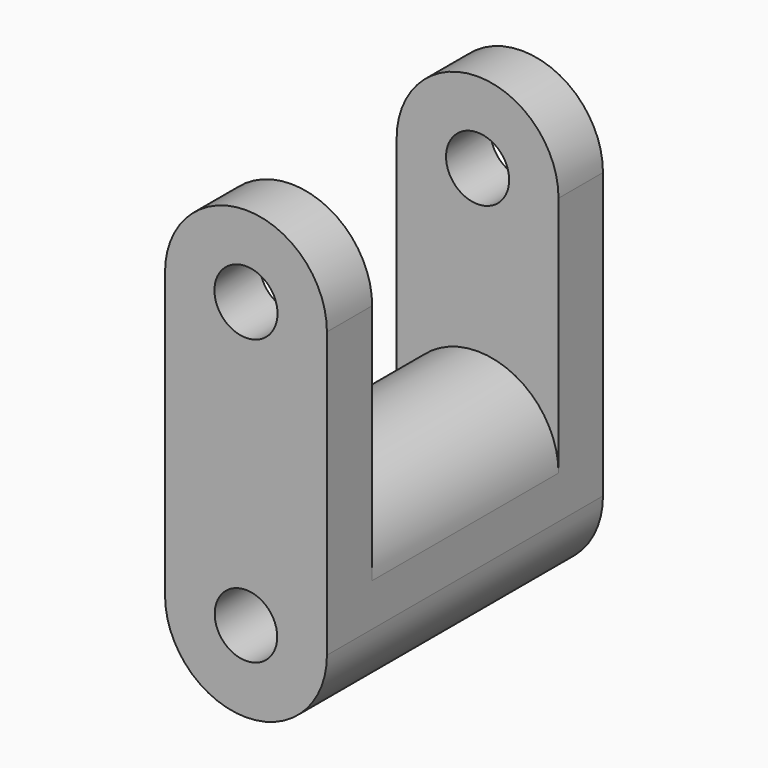
from build123d import *

# Parameters (mm, degrees)
F0_R     = 9.962887
F0_R_2   = 10.057091
F1_DEPTH = 109.982
F2_W     = 74.247135
F2_H     = 110.230008
F3_DEPTH = 51.598741
F5_DEPTH = 79.502


with BuildPart() as f1:
    # F0 (on Front) → F1 (new body)
    with BuildSketch(Plane.XZ):
        with BuildLine():
            ThreePointArc((-25.79887, -45.365807), (0, -71.164677), (25.79887, -45.365807))
            Line((25.79887, -45.365807), (25.79887, 45.365807))
            ThreePointArc((25.79887, 45.365807), (0, 71.164677), (-25.79887, 45.365807))
            Line((-25.79887, 45.365807), (-25.79887, -45.365807))
        make_face()
        with Locations((0, -45.365807)):
            Circle(F0_R, mode=Mode.SUBTRACT)
        with Locations((0, 45.365807)):
            Circle(F0_R_2, mode=Mode.SUBTRACT)
    extrude(amount=-F1_DEPTH)

    # F2 (on face) → F3 (cut, through all)
    with BuildSketch(Plane.YZ.offset(25.79887)):
        with Locations((55.153735, 23.353766)):
            Rectangle(F2_W, F2_H)
    extrude(amount=-F3_DEPTH, mode=Mode.SUBTRACT)

    # F4 (on face) → F5 (join)
    with BuildSketch(Plane.XZ.offset(-92.277303)):
        with BuildLine():
            Line((-25.79887, -31.761238), (25.79887, -31.761238))
            ThreePointArc((25.79887, -31.761238), (0, -5.962368), (-25.79887, -31.761238))
        make_face()
    extrude(amount=F5_DEPTH)


solid = f1.part
